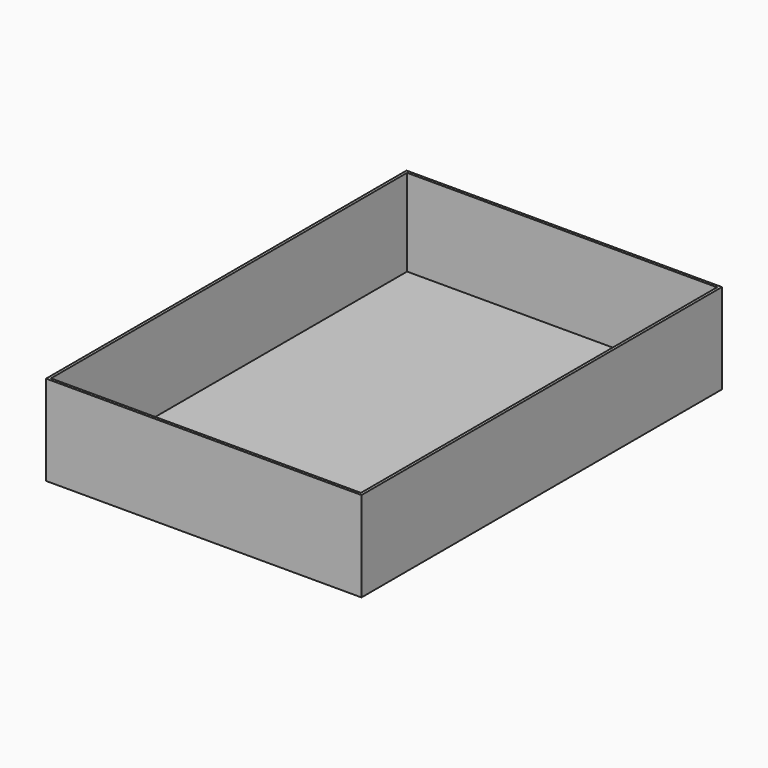
from build123d import *

# Parameters (mm, degrees)
SKETCH_W     = 140
SKETCH_H     = 200
PAD_DEPTH    = 40
SKETCH001_W  = 137.6
SKETCH001_H  = 197.6
POCKET_DEPTH = 38.6


with BuildPart() as part:
    # Sketch → Pad (new body)
    with BuildSketch(Plane.XY):
        Rectangle(SKETCH_W, SKETCH_H)
    extrude(amount=PAD_DEPTH)

    # Sketch001 (on DatumPlane) → Pocket (cut)
    with BuildSketch(Plane.XY.offset(40)):
        Rectangle(SKETCH001_W, SKETCH001_H)
    extrude(amount=-POCKET_DEPTH, mode=Mode.SUBTRACT)


solid = part.part
